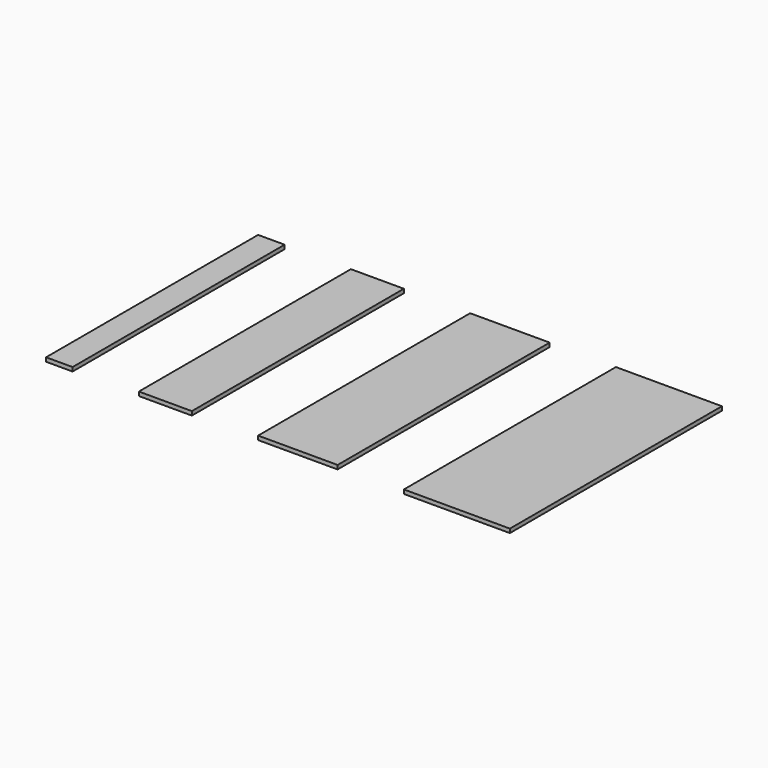
from build123d import *

# Parameters (mm, degrees)
F0_W     = 2
F0_H     = 20
F0_W_2   = 4
F0_W_3   = 6
F0_W_4   = 8
F1_DEPTH = 0.3


with BuildPart() as f1:
    # F0 (on Top) → F1 (new body)
    with BuildSketch(Plane.XY):
        with Locations((-15.05777, 0)):
            Rectangle(F0_W, F0_H)
        with Locations((-7.05777, 0)):
            Rectangle(F0_W_2, F0_H)
        with Locations((2.94223, 0)):
            Rectangle(F0_W_3, F0_H)
        with Locations((14.94223, 0)):
            Rectangle(F0_W_4, F0_H)
    extrude(amount=F1_DEPTH)


solid = f1.part
